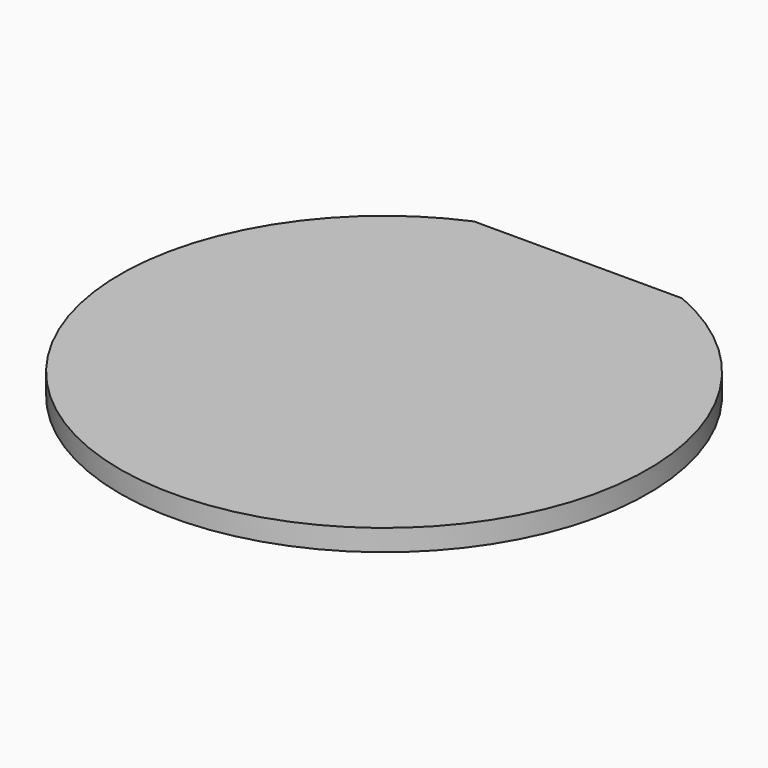
from build123d import *

# Parameters (mm, degrees)
BOX920_W           = 148
BOX920_H           = 20
BOX920_DEPTH       = 34
CYLINDER1932_R     = 74
CYLINDER1932_DEPTH = 6


with BuildPart() as krychle920:
    # Box920 → Box920 (new body)
    with BuildSketch(Plane(origin=(-74, 68, 38), x_dir=(1, 0, 0), z_dir=(0, 0, 1))):
        with Locations((74, 10)):
            Rectangle(BOX920_W, BOX920_H)
    extrude(amount=BOX920_DEPTH)


with BuildPart() as cut625:
    # Cylinder1932 → Cylinder1932 (new body)
    with BuildSketch(Plane.XY.offset(65)):
        Circle(CYLINDER1932_R)
    extrude(amount=CYLINDER1932_DEPTH)

    # Cut625: cut Krychle920
    add(krychle920.part, mode=Mode.SUBTRACT)


with BuildPart() as cut625_1:
    # Cut625 placement: moved
    add(cut625.part.moved(Location((0, 0, 13))))


solid = cut625_1.part
